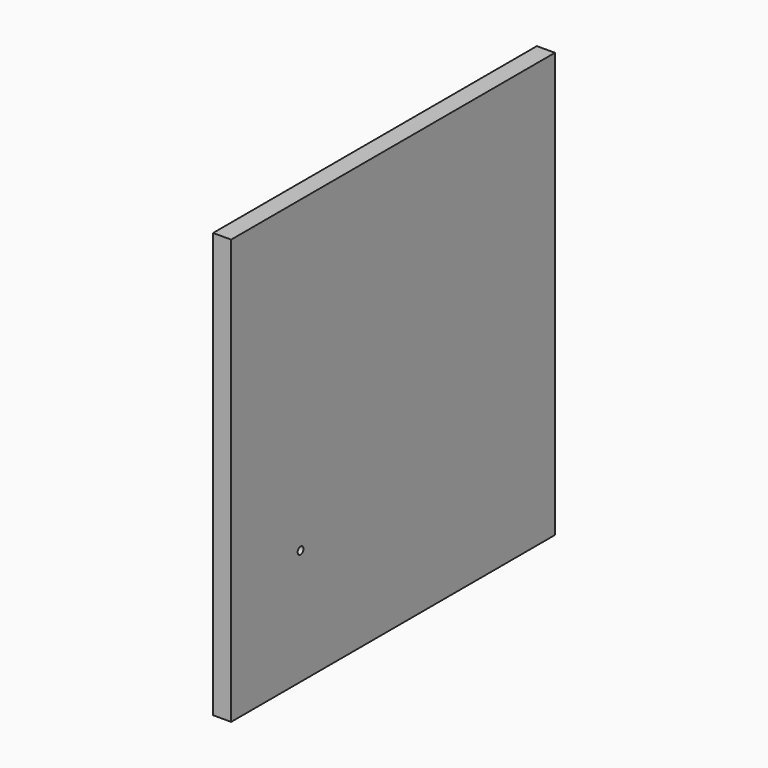
from build123d import *

# Parameters (mm, degrees)
F0_W     = 355.6
F0_H     = 373.0625
F1_DEPTH = 15.875
F3_D     = 6.35
F3_DEPTH = 9.525
F3_TIP   = 1.9077324654
F5_D     = 6.35


with BuildPart() as f1:
    # F0 (on Right) → F1 (new body)
    with BuildSketch(Plane.YZ):
        with Locations((177.8, 186.53125)):
            Rectangle(F0_W, F0_H)
    extrude(amount=F1_DEPTH)

    # F3
    with Locations(Plane(origin=(0, 0, 0), x_dir=(1, 0, 0), z_dir=(0, 0, -1))):
        with Locations((7.9375, -76.2)):
            Hole(F3_D / 2, depth=F3_DEPTH)
            with Locations((0, 0, -(F3_DEPTH + F3_TIP / 2))):  # 118° drill point
                Cone(0, F3_D / 2, F3_TIP, mode=Mode.SUBTRACT)

    # F5 (through all)
    with Locations(Plane(origin=(0, 0, 0), x_dir=(0, -1, 0), z_dir=(-1, 0, 0))):
        with Locations((-76.2, 101.6)):
            Hole(F5_D / 2)


solid = f1.part
